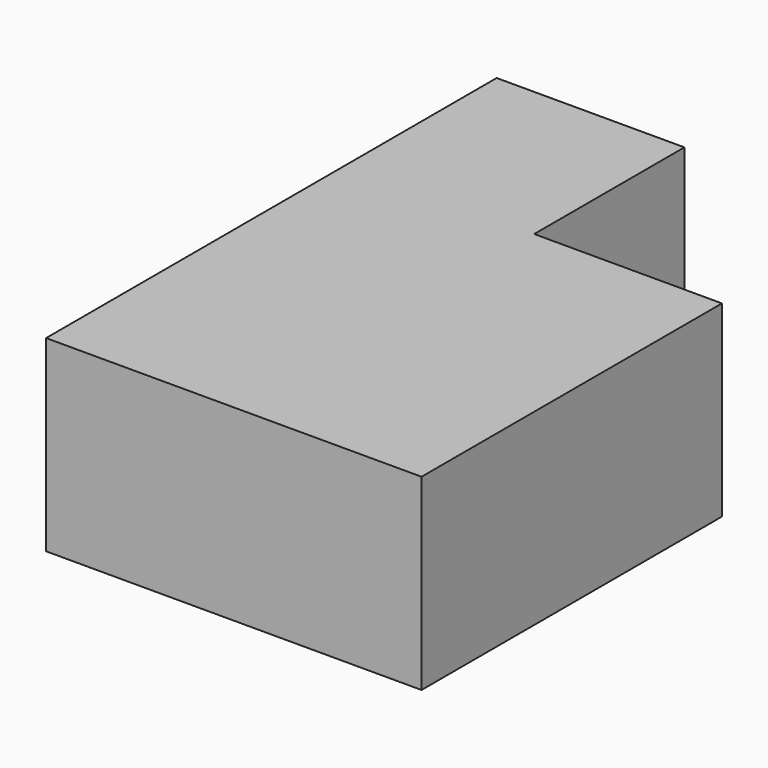
from build123d import *

# Parameters (mm, degrees)
F0_W     = 37.973
F0_H     = 37.973
F1_DEPTH = 18.9865
F2_W     = 18.9865
F2_H     = 18.9865
F3_DEPTH = 18.9865


with BuildPart() as f1:
    # F0 (on Top) → F1 (new body)
    with BuildSketch(Plane.XY):
        Rectangle(F0_W, F0_H)
    extrude(amount=F1_DEPTH)

    # F2 (on face) → F3 (join)
    with BuildSketch(Plane(origin=(-18.9865, 0, 0), x_dir=(0, -1, 0), z_dir=(-1, 0, 0))):
        with Locations((-28.47975, 9.49325)):
            Rectangle(F2_W, F2_H)
    extrude(amount=-F3_DEPTH)


solid = f1.part
